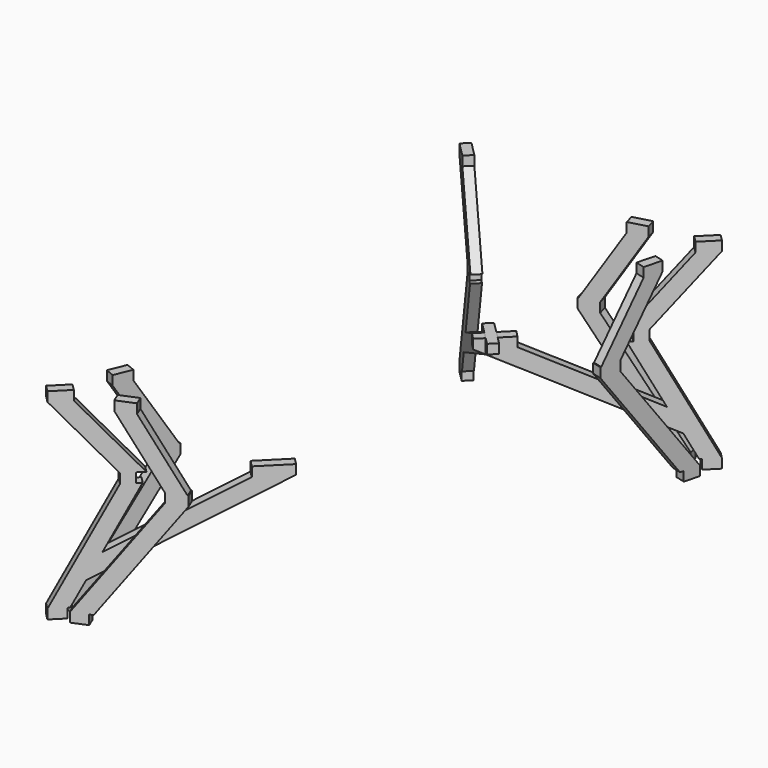
from build123d import *

# Parameters (mm, degrees)
F6_DEPTH  = 9.525
F7_DEPTH  = 9.525
F10_DEPTH = 9.525
F13_DEPTH = 9.525
F15_DEPTH = 9.525
F18_DEPTH = 9.525
F21_DEPTH = 9.525


with BuildPart() as f6:
    # F3 (on face) → F6 (new body, symmetric)
    with BuildSketch(Plane(origin=(-279.3999947591, 279.3999947591, 0), x_dir=(0.7071067812, 0.7071067812, 0), z_dir=(0.7071067812, -0.7071067812, 0))):
        Polygon((1156.1131477356, 0), (1156.1131477356, 19.05), (1040.740609169, 234.95), (1040.740609169, 254), (1156.1131477356, 387.35), (1156.1131477356, 406.4), (1114.1292903237, 406.4), (1114.1292903237, 387.35), (998.7567517572, 254), (1015.340609169, 254), (1015.340609169, 234.95), (1004.6365004879, 234.95), (1068.6922232809, 115.0806556757), (831.3609417396, 234.95), (831.3609417396, 254), (760.9355412407, 254), (760.9355412407, 234.95), (1094.7267659742, 66.3614557923), (1120.0090390545, 19.05), (1124.3631477356, 19.05), (1124.3631477356, 0), align=None)
    extrude(amount=F6_DEPTH, both=True)


with BuildPart() as f7:
    # F5 (on line) → F7 (new body, symmetric)
    with BuildSketch(Plane(origin=(-237.8599100338, 887.7052693302, 0), x_dir=(-0.9659258263, -0.2588190451, 0), z_dir=(-0.2588190451, 0.9659258263, 0))):
        Polygon((-755.7615637779, 19.05), (-755.7615637779, 0), (-724.014043808, 0), (-724.014043808, 19.05), (-716.5765570262, 19.05), (-560.4129241565, 234.95), (-560.4129241565, 254), (-562.1815213486, 254), (-645.3293451592, 387.35), (-645.3293451592, 406.4), (-682.7457547188, 406.4), (-682.7457547188, 387.35), (-599.5979309082, 254), (-599.5979309082, 234.95), align=None)
    extrude(amount=F7_DEPTH, both=True)


with BuildPart() as f10:
    # F9 (on line) → F10 (new body, symmetric)
    with BuildSketch(Plane(origin=(226.6314452412, -60.7257127319, 0), x_dir=(0.2588190451, 0.9659258263, 0), z_dir=(0.9659258263, -0.2588190451, 0))):
        Polygon((1040.4578773385, 387.3577304348), (957.3100535279, 254.0077304348), (955.5414563358, 254.0077304348), (955.5414563358, 234.9577304348), (1111.7050892055, 19.0577304348), (1119.1425759873, 19.0577304348), (1119.1425759873, 0.0077304348), (1150.8900959572, 0.0077304348), (1150.8900959572, 19.0577304348), (994.7264630875, 234.9577304348), (994.7264630875, 254.0077304348), (1077.8742868981, 387.3577304348), (1077.8742868981, 406.4077304348), (1040.4578773385, 406.4077304348), align=None)
    extrude(amount=F10_DEPTH, both=True)


with BuildPart() as f13:
    # F12 (on face) → F13 (new body, symmetric)
    with BuildSketch(Plane(origin=(558.8000271954, 558.8000271954, 0), x_dir=(-0.7071067812, 0.7071067812, 0), z_dir=(0.7071067812, 0.7071067812, 0))):
        Polygon((761.091153445, 0.0001614707), (761.091153445, 19.0501614707), (645.7186148784, 234.9501614707), (645.7186148784, 254.0001614707), (761.091153445, 387.3501614707), (761.091153445, 406.4001614707), (719.1072960331, 406.4001614707), (719.1072960331, 387.3501614707), (603.7347574665, 254.0001614707), (620.3186148784, 254.0001614707), (620.3186148784, 234.9501614707), (609.6145061973, 234.9501614707), (673.6702289903, 115.0808171464), (436.338947449, 234.9501614707), (436.338947449, 254.0001614707), (365.9135469501, 254.0001614707), (365.9135469501, 234.9501614707), (699.7047716836, 66.3616172629), (724.9870447639, 19.0501614707), (729.341153445, 19.0501614707), (729.341153445, 0.0001614707), align=None)
    extrude(amount=F13_DEPTH, both=True)


with BuildPart() as f15:
    # F14 (on face) → F15 (new body, symmetric)
    with BuildSketch(Plane(origin=(5.2409e-06, -5.2409e-06, 0), x_dir=(0.7071067812, 0.7071067812, 0), z_dir=(0.7071067812, -0.7071067812, 0))):
        Polygon((127.8147583451, 115.0757371464), (191.8704811381, 234.9450814707), (181.166372457, 234.9450814707), (181.166372457, 253.9950814707), (197.7502298688, 253.9950814707), (82.3776913023, 387.3450814707), (82.3776913023, 406.3950814707), (40.3938338904, 406.3950814707), (40.3938338904, 387.3450814707), (155.766372457, 253.9950814707), (155.766372457, 234.9450814707), (40.3938338904, 19.0450814707), (40.3938338904, -0.0049185293), (72.1438338904, -0.0049185293), (72.1438338904, 19.0450814707), (76.4979425715, 19.0450814707), (101.7802156518, 66.3565372629), (435.5714403853, 234.9450814707), (435.5714403853, 253.9950814707), (365.1460398864, 253.9950814707), (365.1460398864, 234.9450814707), align=None)
    extrude(amount=F15_DEPTH, both=True)


with BuildPart() as f18:
    # F17 (on line) → F18 (new body, symmetric)
    with BuildSketch(Plane(origin=(-6.0751025032, 14.6665948559, 0), x_dir=(-0.9238795325, -0.3826834324, 0), z_dir=(-0.3826834324, 0.9238795325, 0))):
        Polygon((-188.4031181607, 387.3475704348), (-271.5509419713, 253.9975704348), (-273.3195391634, 253.9975704348), (-273.3195391634, 234.9475704348), (-117.1559062937, 19.0475704348), (-109.7184195119, 19.0475704348), (-109.7184195119, -0.0024295652), (-77.970899542, -0.0024295652), (-77.970899542, 19.0475704348), (-234.1345324117, 234.9475704348), (-234.1345324117, 253.9975704348), (-150.9867086011, 387.3475704348), (-150.9867086011, 406.3975704348), (-188.4031181607, 406.3975704348), align=None)
    extrude(amount=F18_DEPTH, both=True)


with BuildPart() as f21:
    # F20 (on line) → F21 (new body, symmetric)
    with BuildSketch(Plane(origin=(14.6666075026, -6.0751077416, 0), x_dir=(0.3826834324, 0.9238795325, 0), z_dir=(0.9238795325, -0.3826834324, 0))):
        Polygon((77.6739885453, 19.04949), (77.6739885453, -0.00051), (109.4215085152, -0.00051), (109.4215085152, 19.04949), (116.858995297, 19.04949), (273.0226281667, 234.94949), (273.0226281667, 253.99949), (271.2540309746, 253.99949), (188.106207164, 387.34949), (188.106207164, 406.39949), (150.6897976044, 406.39949), (150.6897976044, 387.34949), (233.837621415, 253.99949), (233.837621415, 234.94949), align=None)
    extrude(amount=F21_DEPTH, both=True)


solid = Compound([f6.part, f7.part, f10.part, f13.part, f15.part, f18.part, f21.part])
